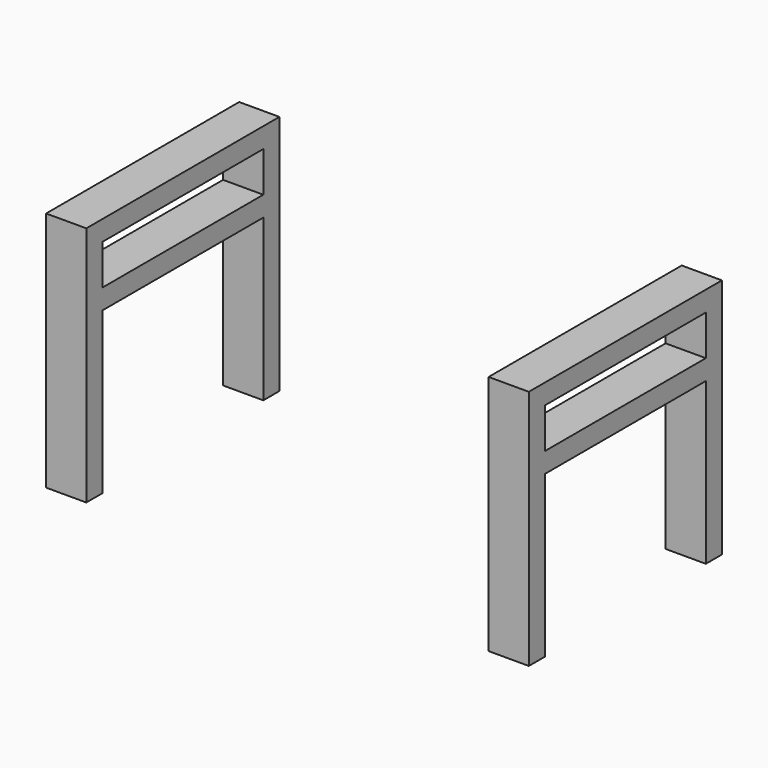
from build123d import *

# Parameters (mm, degrees)
F0_W     = 304.8
F0_H     = 152.4
F1_DEPTH = 152.4
F2_W     = 127
F2_H     = 101.6
F2_H_2   = 25.4
F3_DEPTH = 304.8
F4_W     = 254
F4_H     = 152.4
F5_DEPTH = 152.4


with BuildPart() as f1:
    # F0 (on Front) → F1 (new body)
    with BuildSketch(Plane.XZ):
        with Locations((-0.0805743039, -76.9265565288)):
            Rectangle(F0_W, F0_H)
    extrude(amount=F1_DEPTH)

    # F2 (on face) → F3 (cut)
    with BuildSketch(Plane.YZ.offset(152.3194256961)):
        with Locations((-76.2, -102.3265565288)):
            Rectangle(F2_W, F2_H)
        with Locations((-76.2, -26.1265565288)):
            Rectangle(F2_W, F2_H_2)
    extrude(amount=-F3_DEPTH, mode=Mode.SUBTRACT)

    # F4 (on face) → F5 (cut)
    with BuildSketch(Plane.XY.offset(-0.7265565288)):
        with Locations((-0.0805743039, -76.2)):
            Rectangle(F4_W, F4_H)
    extrude(amount=-F5_DEPTH, mode=Mode.SUBTRACT)


solid = f1.part
